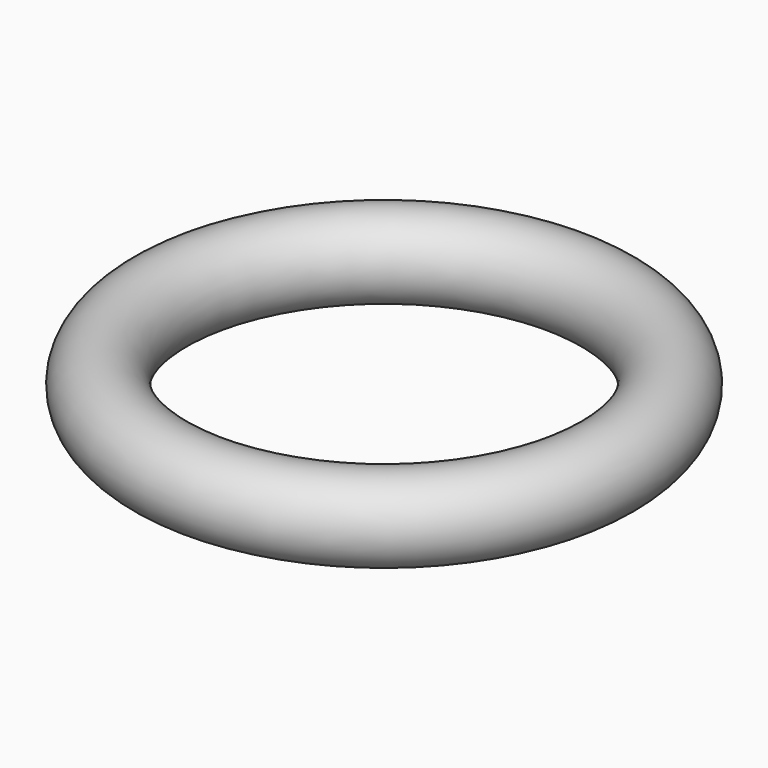
from build123d import *

# Parameters (mm, degrees)
SKETCH001_R = 0.5


with BuildPart() as part:
    # AdditivePipe: sweep along a path in Sketch
    with BuildLine(Plane.XY) as additivepipe_path:
        CenterArc((0, 0), 2.75, 0, 360)
    # Sketch001 → AdditivePipe (sweep)
    with BuildSketch(Plane.XZ):
        with Locations((2.75, 0)):
            Circle(SKETCH001_R)
    sweep(path=additivepipe_path.line)


solid = part.part
